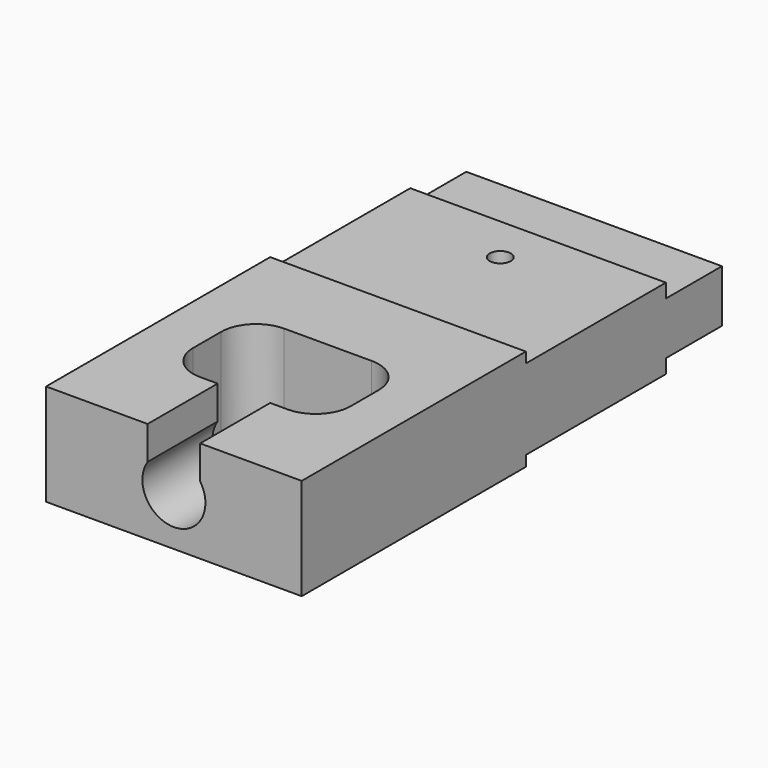
from build123d import *

# Parameters (mm, degrees)
F2_DEPTH = 7.3
F3_R     = 0.3
F4_DEPTH = 2.901
F6_DEPTH = 2.5


with BuildPart() as f2:
    # F1 (on Right) → F2 (new body)
    with BuildSketch(Plane.YZ):
        Polygon((0, 1.45), (0, 0), (0, -1.45), (8, -1.45), (8, -1.15), (13, -1.15), (13, -0.75), (15, -0.75), (15, 0), (15, 0.75), (13, 0.75), (13, 1.15), (8, 1.15), (8, 1.45), align=None)
    extrude(amount=F2_DEPTH)

    # F3 (on face) → F4 (cut, through all)
    with BuildSketch(Plane.XY.offset(1.45)):
        with BuildLine():
            ThreePointArc((1.4, 3.5), (1.6928932188, 2.7928932188), (2.4, 2.5))
            Line((2.4, 2.5), (4.9, 2.5))
            ThreePointArc((4.9, 2.5), (5.6071067812, 2.7928932188), (5.9, 3.5))
            Line((5.9, 3.5), (5.9, 4.5))
            ThreePointArc((5.9, 4.5), (5.6071067812, 5.2071067812), (4.9, 5.5))
            Line((4.9, 5.5), (2.4, 5.5))
            ThreePointArc((2.4, 5.5), (1.6928932188, 5.2071067812), (1.4, 4.5))
            Line((1.4, 4.5), (1.4, 3.5))
        make_face()
        with Locations((3.65, 11.65)):
            Circle(F3_R)
    extrude(amount=-F4_DEPTH, mode=Mode.SUBTRACT)

    # F5 (on face) → F6 (cut, through all)
    with BuildSketch(Plane.XZ):
        with BuildLine():
            Line((4.4, 1.45), (2.9, 1.45))
            Line((2.9, 1.45), (2.9, 0.4974937186))
            ThreePointArc((2.9, 0.4974937186), (3.65, -0.9), (4.4, 0.4974937186))
            Line((4.4, 0.4974937186), (4.4, 1.45))
        make_face()
    extrude(amount=-F6_DEPTH, mode=Mode.SUBTRACT)


solid = f2.part
